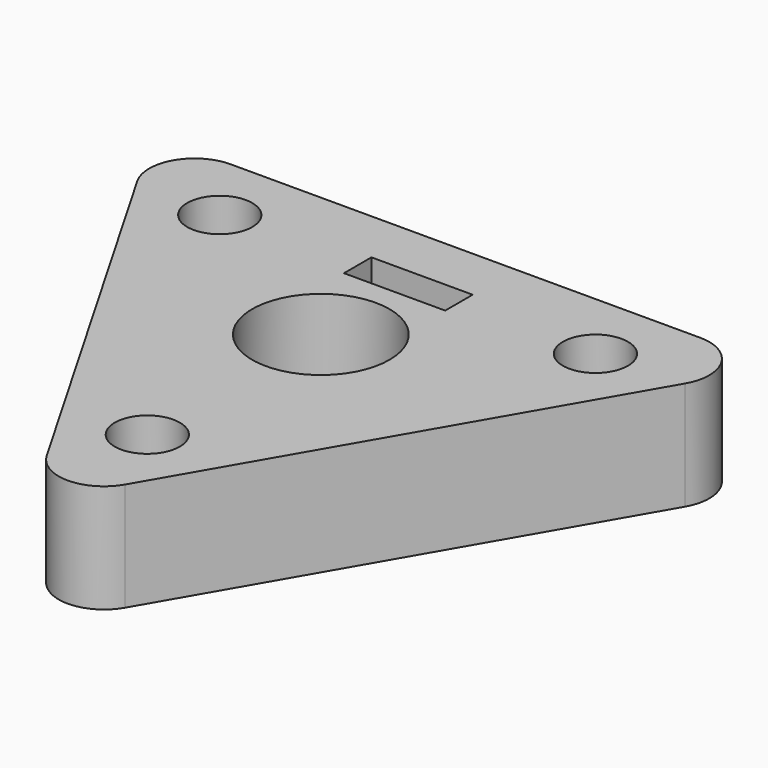
from build123d import *

# Parameters (mm, degrees)
SKETCH004_R           = 3.8
PAD001_DEPTH          = 6
SKETCH005_R           = 1.8
POCKET001_DEPTH       = 89.716175
POLARPATTERN_COUNT    = 3
POCKET002_DEPTH       = 3
POLARPATTERN001_COUNT = 3
SKETCH007_R           = 1.7
POCKET003_DEPTH       = 5.5
SKETCH008_W           = 5.6
SKETCH008_H           = 1.9
POCKET004_DEPTH       = 6.001
POCKET005_DEPTH       = 5.5


with BuildPart() as part:
    # Sketch004 → Pad001 (new body)
    with BuildSketch(Plane.XY):
        with BuildLine():
            Line((-12.990381, 10), (12.990381, 10))
            ThreePointArc((15.155445, 6.25), (15.155445, 8.75), (12.990381, 10))
            Line((15.155445, 6.25), (2.165064, -16.25))
            ThreePointArc((-2.165064, -16.25), (0, -17.5), (2.165064, -16.25))
            Line((-2.165064, -16.25), (-15.155445, 6.25))
            ThreePointArc((-12.990381, 10), (-15.155445, 8.75), (-15.155445, 6.25))
        make_face()
        Circle(SKETCH004_R, mode=Mode.SUBTRACT)
    extrude(amount=PAD001_DEPTH)

    # Sketch005 (on Face8 of Pad001) → Pocket001 (cut, through all)
    with BuildSketch(Plane(origin=(0, 0, 0), x_dir=(1, 0, 0), z_dir=(0, 0, -1))):
        with Locations((0, 12)):
            Circle(SKETCH005_R)
    pocket001 = extrude(amount=-POCKET001_DEPTH, mode=Mode.SUBTRACT)

    # PolarPattern: Pocket001 ×3 about axis
    polarpattern_axis = Axis((0, 0, 0), (0, 0, -1))
    for i in range(1, POLARPATTERN_COUNT):
        add(pocket001.rotate(polarpattern_axis, i * 360 / POLARPATTERN_COUNT), mode=Mode.SUBTRACT)

    # Sketch006 (on Face4 of PolarPattern) → Pocket002 (cut)
    with BuildSketch(Plane(origin=(0, 0, 0), x_dir=(1, 0, 0), z_dir=(0, 0, -1))):
        Polygon((1.631015, 14.825), (-1.631015, 14.825), (-3.262029, 12), (-1.631015, 9.175), (1.631015, 9.175), (3.262029, 12), align=None)
    pocket002 = extrude(amount=-POCKET002_DEPTH, mode=Mode.SUBTRACT)

    # PolarPattern001: Pocket002 ×3 about axis
    polarpattern001_axis = Axis((0, 0, 0), (0, 0, -1))
    for i in range(1, POLARPATTERN001_COUNT):
        add(pocket002.rotate(polarpattern001_axis, i * 360 / POLARPATTERN001_COUNT), mode=Mode.SUBTRACT)

    # Sketch007 (on Face7 of PolarPattern001) → Pocket003 (cut)
    with BuildSketch(Plane(origin=(0, 10, 0), x_dir=(-1, 0, 0), z_dir=(0, 1, 0))):
        with Locations((0, 3)):
            Circle(SKETCH007_R)
    extrude(amount=-POCKET003_DEPTH, mode=Mode.SUBTRACT)

    # Sketch008 (on Face4 of Pocket003) → Pocket004 (cut, through all)
    with BuildSketch(Plane(origin=(0, 0, 0), x_dir=(1, 0, 0), z_dir=(0, 0, -1))):
        with Locations((0, -6.05)):
            Rectangle(SKETCH008_W, SKETCH008_H)
    extrude(amount=-POCKET004_DEPTH, mode=Mode.SUBTRACT)

    # Sketch009 (on Face7 of Pocket004) → Pocket005 (cut)
    with BuildSketch(Plane(origin=(0, 10, 0), x_dir=(-1, 0, 0), z_dir=(0, 1, 0))):
        Polygon((-0.75, 1.474385), (-0.25, 1.2), (0.25, 1.2), (0.75, 1.474385), align=None)
    extrude(amount=-POCKET005_DEPTH, mode=Mode.SUBTRACT)


solid = part.part
